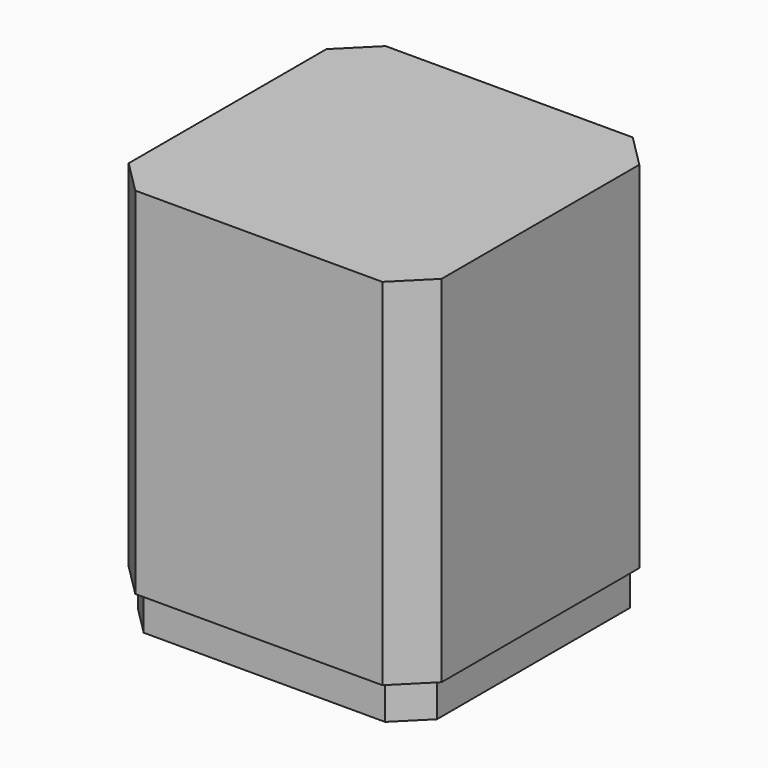
from build123d import *

# Parameters (mm, degrees)
F0_W     = 42.3
F0_H     = 42.3
F1_DEPTH = 48
F2_SIZE  = 4.445
F4_DEPTH = 4.8768


with BuildPart() as f1:
    # F0 (on Top) → F1 (new body)
    with BuildSketch(Plane.XY):
        Rectangle(F0_W, F0_H)
    extrude(amount=F1_DEPTH)

    # F2
    f2_edges = [f1.edges().sort_by_distance(p)[0] for p in [
        (21.15, 21.15, 24),
        (-21.15, 21.15, 24),
        (-21.15, -21.15, 24),
        (21.15, -21.15, 24),
    ]]
    chamfer(f2_edges, length=F2_SIZE)

    # F3 (on face) → F4 (join)
    with BuildSketch(Plane(origin=(0, 0, 0), x_dir=(1, 0, 0), z_dir=(0, 0, -1))):
        Polygon((-16.315722, -20.2102), (16.315722, -20.2102), (20.2102, -16.315722), (20.2102, 16.315722), (16.315722, 20.2102), (-16.315722, 20.2102), (-20.2102, 16.315722), (-20.2102, -16.315722), align=None)
    extrude(amount=F4_DEPTH)


solid = f1.part
